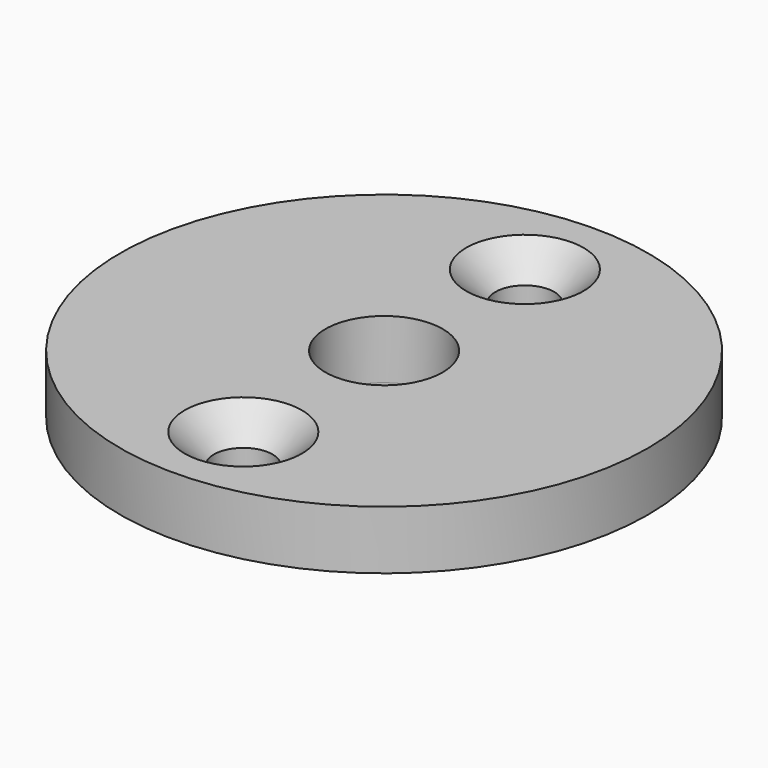
from build123d import *

# Parameters (mm, degrees)
F0_R           = 9
F0_R_2         = 3.5
F0_R_3         = 2
F1_DEPTH       = 2
F2_DEPTH       = 1
F4_D           = 2
F4_CSINK_D     = 4
F4_CSINK_ANGLE = 90


with BuildPart() as f1:
    # F0 (on Top) → F1 (new body)
    with BuildSketch(Plane.XY):
        Circle(F0_R)
        Circle(F0_R_2, mode=Mode.SUBTRACT)
        Circle(F0_R_2)
        Circle(F0_R_3, mode=Mode.SUBTRACT)
    extrude(amount=F1_DEPTH)

    # F0 (on Top) → F2 (join)
    with BuildSketch(Plane.XY):
        Circle(F0_R_2)
        Circle(F0_R_3, mode=Mode.SUBTRACT)
    extrude(amount=-F2_DEPTH)

    # F4 (through all)
    with Locations(Plane.XY.offset(2)):
        with Locations((0, 6), (0, -6)):
            CounterSinkHole(F4_D / 2, F4_CSINK_D / 2, counter_sink_angle=F4_CSINK_ANGLE)


solid = f1.part
